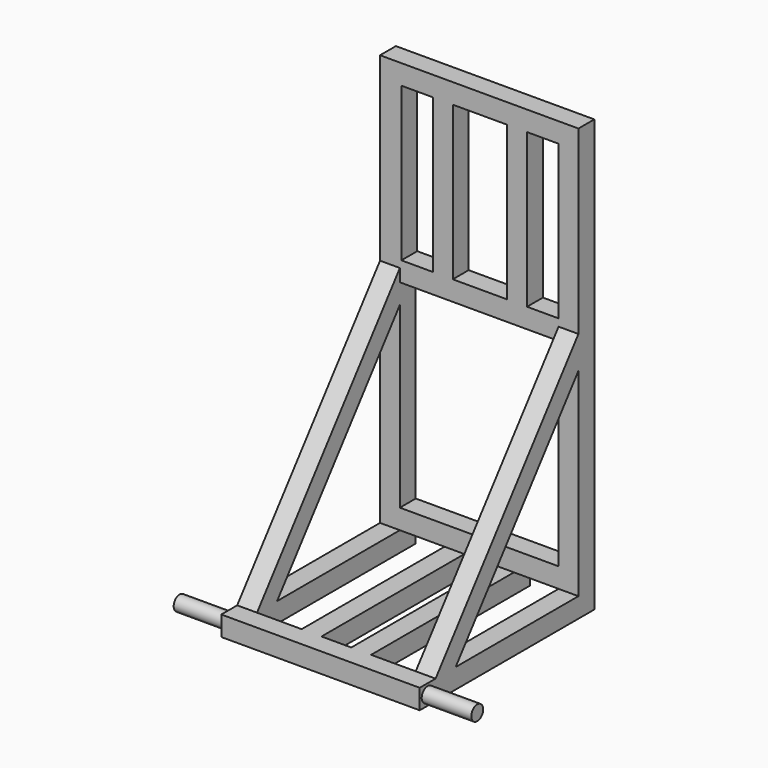
from build123d import *

# Parameters (mm, degrees)
F0_W      = 400
F0_H      = 830
F0_W_2    = 320
F0_H_2    = 400
F0_W_3    = 63.6140084174
F0_H_3    = 310
F0_W_4    = 109.7493757494
F1_DEPTH  = 40
F2_W      = 40
F2_H      = 40
F3_DEPTH  = 400
F5_DEPTH  = 40
F7_W      = 400
F7_H      = 40
F8_DEPTH  = 40
F11_DEPTH = 40
F12_R     = 15
F13_DEPTH = 100
F14_R     = 15
F15_DEPTH = 100


with BuildPart() as f1:
    # F0 (on Front) → F1 (new body)
    with BuildSketch(Plane.XZ):
        with Locations((200, -415)):
            Rectangle(F0_W, F0_H)
        with Locations((200, -590)):
            Rectangle(F0_W_2, F0_H_2, mode=Mode.SUBTRACT)
        with Locations((74.8296116246, -195)):
            Rectangle(F0_W_3, F0_H_3, mode=Mode.SUBTRACT)
        with Locations((201.511303708, -195)):
            Rectangle(F0_W_4, F0_H_3, mode=Mode.SUBTRACT)
        with Locations((328.1929957913, -195)):
            Rectangle(F0_W_3, F0_H_3, mode=Mode.SUBTRACT)
    extrude(amount=F1_DEPTH)

    # F2 (on Front) → F3 (join)
    with BuildSketch(Plane.XZ):
        with Locations((380, -850)):
            Rectangle(F2_W, F2_H)
        with Locations((250, -850)):
            Rectangle(F2_W, F2_H)
        with Locations((150, -850)):
            Rectangle(F2_W, F2_H)
        with Locations((20, -850)):
            Rectangle(F2_W, F2_H)
    extrude(amount=F3_DEPTH)

    # F4 (on Right) → F5 (join)
    with BuildSketch(Plane.YZ):
        Polygon((-40, -430), (-40, -364.6261646075), (-400, -830), (-349.4286550909, -830), align=None)
    extrude(amount=F5_DEPTH)

    # F7 (on offset) → F8 (join)
    with BuildSketch(Plane.XZ.offset(400)):
        with Locations((200, -850)):
            Rectangle(F7_W, F7_H)
    extrude(amount=F8_DEPTH)

    # F10 (on offset) → F11 (join)
    with BuildSketch(Plane.YZ.offset(400)):
        Polygon((-400, -830), (-349.4286550909, -830), (-40, -430), (-40, -364.6261646075), align=None)
    extrude(amount=-F11_DEPTH)

    # F12 (on offset) → F13 (join)
    with BuildSketch(Plane.YZ.offset(400)):
        with Locations((-420, -850)):
            Circle(F12_R)
    extrude(amount=F13_DEPTH)

    # F14 (on Right) → F15 (join)
    with BuildSketch(Plane.YZ):
        with Locations((-420, -850)):
            Circle(F14_R)
    extrude(amount=-F15_DEPTH)


solid = f1.part
